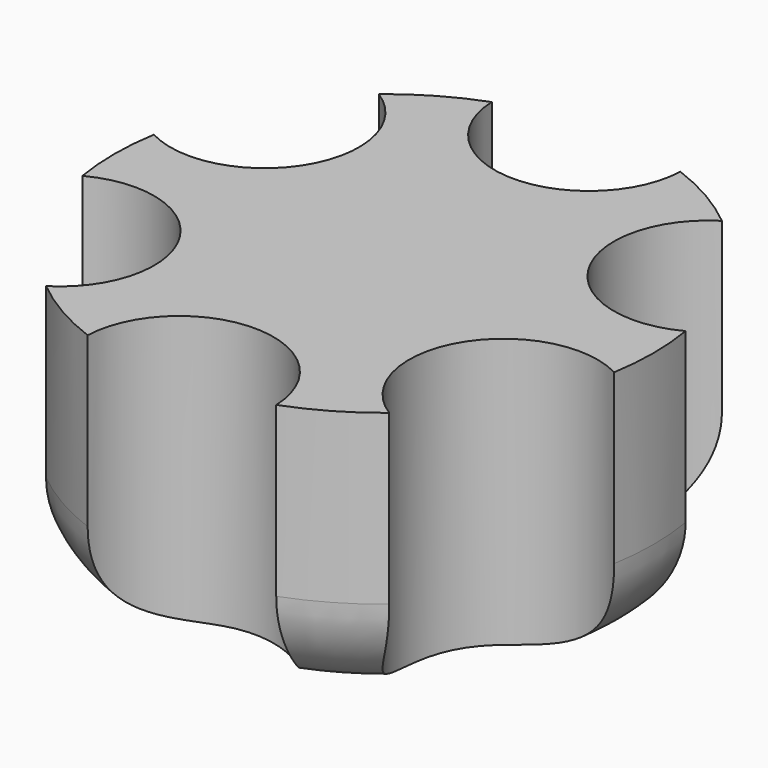
from build123d import *

# Parameters (mm, degrees)
F1_DEPTH = 2


with BuildPart() as f1:
    # F0 (on Top) → F1 (new body)
    with BuildSketch(Plane.XY):
        with BuildLine():
            ThreePointArc((0.6995051674, 1.8736842105), (0, 1.2), (-0.6995051674, 1.8736842105))
            ThreePointArc((-0.6995051674, 1.8736842105), (-1, 1.7320508076), (-1.2729055413, 1.5426313503))
            ThreePointArc((-1.2729055413, 1.5426313503), (-1.0392304845, 0.6), (-1.9724107087, 0.3310528602))
            ThreePointArc((-1.9724107087, 0.3310528602), (-2, 0), (-1.9724107087, -0.3310528602))
            ThreePointArc((-1.9724107087, -0.3310528602), (-1.0392304845, -0.6), (-1.2729055413, -1.5426313503))
            ThreePointArc((-1.2729055413, -1.5426313503), (-1, -1.7320508076), (-0.6995051674, -1.8736842105))
            ThreePointArc((-0.6995051674, -1.8736842105), (0, -1.2), (0.6995051674, -1.8736842105))
            ThreePointArc((0.6995051674, -1.8736842105), (1, -1.7320508076), (1.2729055413, -1.5426313503))
            ThreePointArc((1.2729055413, -1.5426313503), (1.0392304845, -0.6), (1.9724107087, -0.3310528602))
            ThreePointArc((1.9724107087, -0.3310528602), (2, 0), (1.9724107087, 0.3310528602))
            ThreePointArc((1.9724107087, 0.3310528602), (1.0392304845, 0.6), (1.2729055413, 1.5426313503))
            ThreePointArc((1.2729055413, 1.5426313503), (1, 1.7320508076), (0.6995051674, 1.8736842105))
        make_face()
    extrude(amount=F1_DEPTH)

    # F2 (on Front) → F3 (revolve, cut)
    with BuildSketch(Plane.XZ):
        with BuildLine():
            Line((-2, 0.75), (-2, 0))
            Line((-2, 0), (-1.25, 0))
            ThreePointArc((-1.25, 0), (-1.7803300859, 0.2196699141), (-2, 0.75))
        make_face()
    revolve(axis=Axis((0, 0, 1.2335292995), (0, 0, 1)), mode=Mode.SUBTRACT)


solid = f1.part
